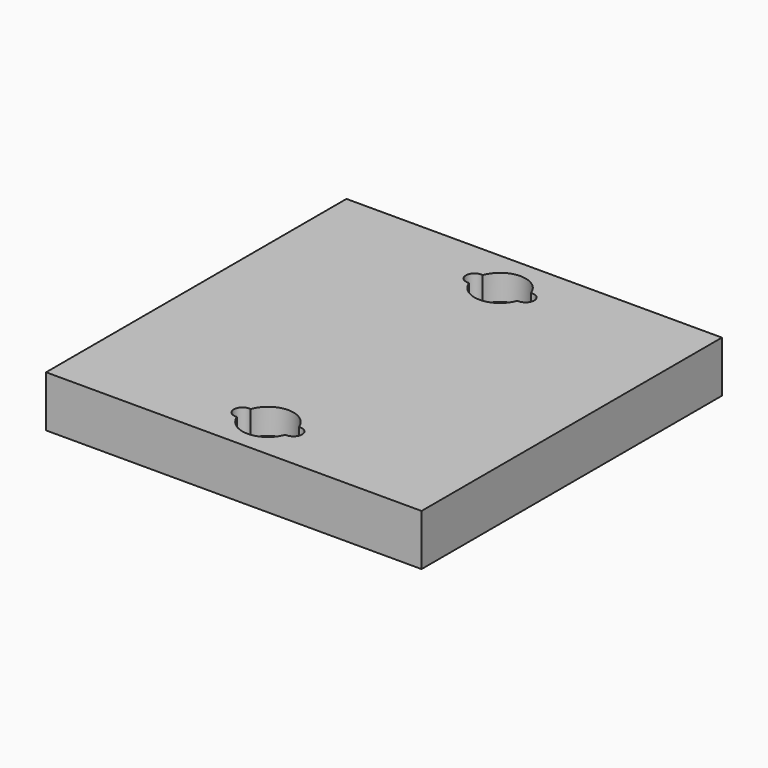
from build123d import *

# Parameters (mm, degrees)
CYLINDER004_R     = 1
CYLINDER004_DEPTH = 10
CYLINDER005_R     = 1
CYLINDER005_DEPTH = 10
CYLINDER003_R     = 1
CYLINDER003_DEPTH = 10
CYLINDER002_R     = 1
CYLINDER002_DEPTH = 10
CYLINDER_R        = 3
CYLINDER_DEPTH    = 10
CYLINDER001_R     = 3
CYLINDER001_DEPTH = 10
BOX_W             = 44
BOX_H             = 44
BOX_DEPTH         = 6


with BuildPart() as cylinder004:
    # Cylinder004 → Cylinder004 (new body)
    with BuildSketch(Plane(origin=(19, 39, -2), x_dir=(1, 0, 0), z_dir=(0, 0, 1))):
        Circle(CYLINDER004_R)
    extrude(amount=CYLINDER004_DEPTH)


with BuildPart() as cylinder005:
    # Cylinder005 → Cylinder005 (new body)
    with BuildSketch(Plane(origin=(25, 39, -2), x_dir=(1, 0, 0), z_dir=(0, 0, 1))):
        Circle(CYLINDER005_R)
    extrude(amount=CYLINDER005_DEPTH)


with BuildPart() as cylinder003:
    # Cylinder003 → Cylinder003 (new body)
    with BuildSketch(Plane(origin=(25, 5, -2), x_dir=(1, 0, 0), z_dir=(0, 0, 1))):
        Circle(CYLINDER003_R)
    extrude(amount=CYLINDER003_DEPTH)


with BuildPart() as cylinder002:
    # Cylinder002 → Cylinder002 (new body)
    with BuildSketch(Plane(origin=(19, 5, -2), x_dir=(1, 0, 0), z_dir=(0, 0, 1))):
        Circle(CYLINDER002_R)
    extrude(amount=CYLINDER002_DEPTH)


with BuildPart() as cylinder:
    # Cylinder → Cylinder (new body)
    with BuildSketch(Plane(origin=(22, 5, 3), x_dir=(1, 0, 0), z_dir=(0, 0, 1))):
        Circle(CYLINDER_R)
    extrude(amount=CYLINDER_DEPTH)


with BuildPart() as cylinder001:
    # Cylinder001 → Cylinder001 (new body)
    with BuildSketch(Plane(origin=(22, 39, 3), x_dir=(1, 0, 0), z_dir=(0, 0, 1))):
        Circle(CYLINDER001_R)
    extrude(amount=CYLINDER001_DEPTH)


with BuildPart() as cut005:
    # Box → Box (new body)
    with BuildSketch(Plane.XY):
        with Locations((22, 22)):
            Rectangle(BOX_W, BOX_H)
    extrude(amount=BOX_DEPTH)

    # Cut: cut Cylinder001
    add(cylinder001.part, mode=Mode.SUBTRACT)

    # Cut001: cut Cylinder
    add(cylinder.part, mode=Mode.SUBTRACT)

    # Cut002: cut Cylinder002
    add(cylinder002.part, mode=Mode.SUBTRACT)

    # Cut003: cut Cylinder003
    add(cylinder003.part, mode=Mode.SUBTRACT)

    # Cut004: cut Cylinder005
    add(cylinder005.part, mode=Mode.SUBTRACT)

    # Cut005: cut Cylinder004
    add(cylinder004.part, mode=Mode.SUBTRACT)


solid = cut005.part
